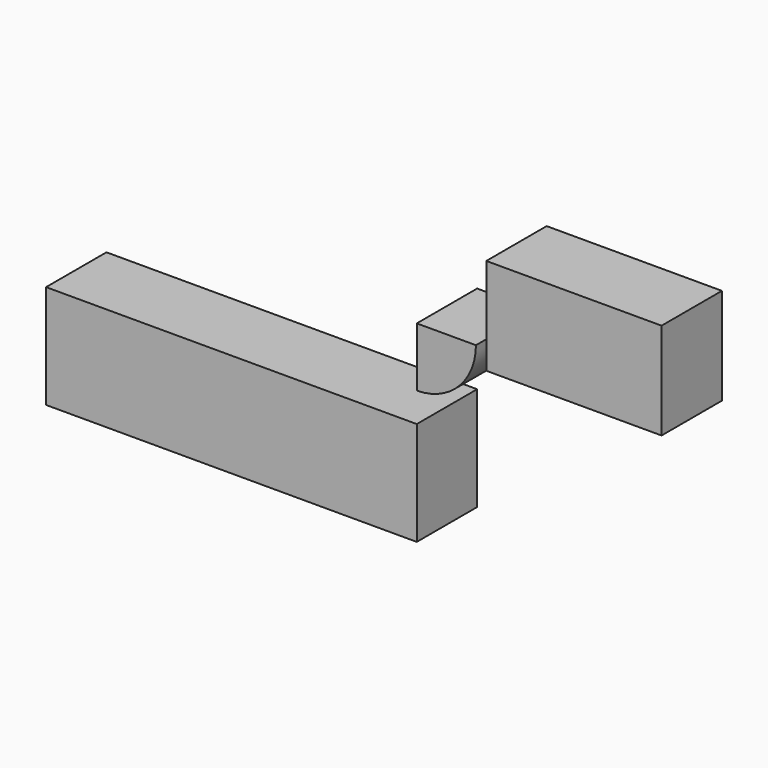
from build123d import *

# Parameters (mm, degrees)
F0_W     = 124.786276
F0_H     = 34.926591
F1_DEPTH = 25.4


with BuildPart() as f1:
    # F0 (on Front) → F1 (new body)
    with BuildSketch(Plane.XZ):
        Polygon((89.181498, 74.770041), (89.181498, 48.659865), (89.181498, 42.217098), (148.183689, 42.217098), (148.183689, 74.770041), align=None)
        with BuildLine():
            Line((65.784067, 48.659865), (65.784067, 28.745541))
            ThreePointArc((65.784067, 28.745541), (79.86562, 34.578311), (85.698391, 48.659865))
            Line((85.698391, 48.659865), (65.784067, 48.659865))
        make_face()
        with Locations((3.390929, 1.356376)):
            Rectangle(F0_W, F0_H)
    extrude(amount=F1_DEPTH)


solid = f1.part
